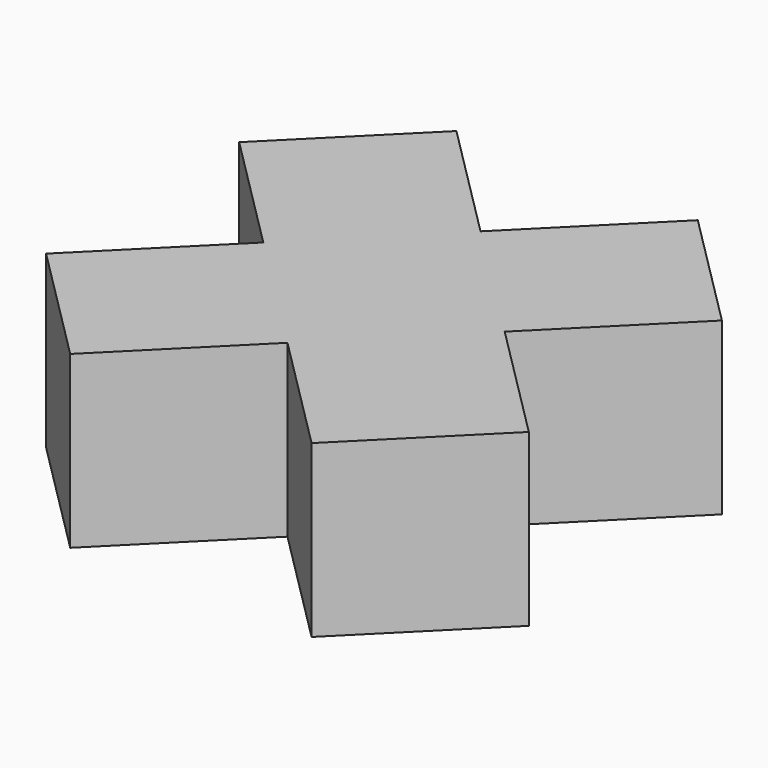
from build123d import *

# Parameters (mm, degrees)
BOX008_W                  = 3
BOX008_H                  = 1
BOX008_DEPTH              = 1
BOX009_W                  = 1
BOX009_H                  = 3
BOX009_DEPTH              = 1
FUSION002_PLACEMENT_ANGLE = 315


with BuildPart() as cube008:
    # Box008 → Box008 (new body)
    with BuildSketch(Plane(origin=(-1, 1, 0), x_dir=(1, 0, 0), z_dir=(0, 0, 1))):
        with Locations((1.5, 0.5)):
            Rectangle(BOX008_W, BOX008_H)
    extrude(amount=BOX008_DEPTH)


with BuildPart() as x:
    # Box009 → Box009 (new body)
    with BuildSketch(Plane.XY):
        with Locations((0.5, 1.5)):
            Rectangle(BOX009_W, BOX009_H)
    extrude(amount=BOX009_DEPTH)

    # Fusion002: union Cube008
    add(cube008.part)


with BuildPart() as x_1:
    # Fusion002 placement: moved
    add(x.part.rotate(Axis((0, 0, 0), (0, 0, 1)), FUSION002_PLACEMENT_ANGLE))


solid = x_1.part
